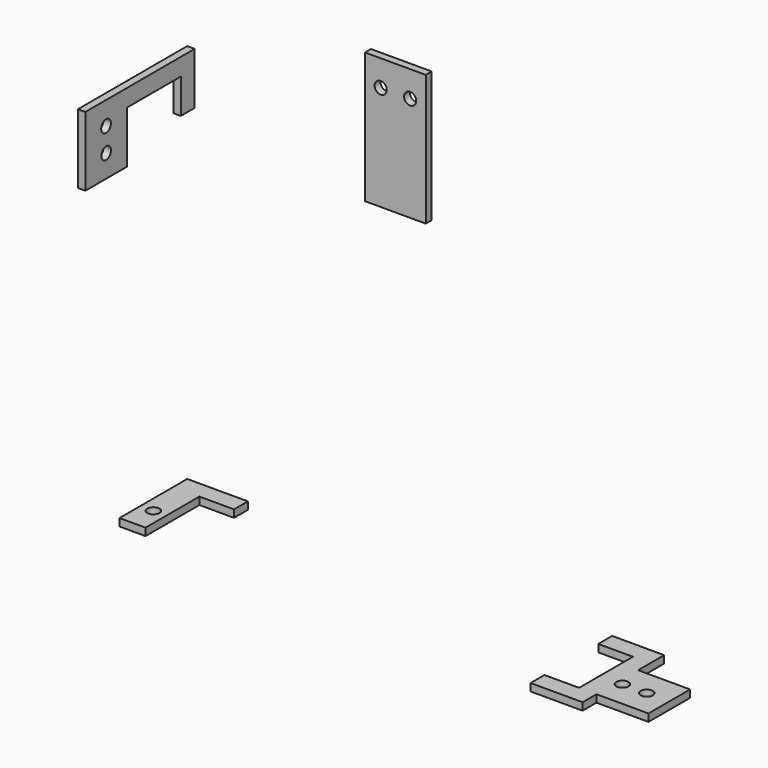
from build123d import *

# Parameters (mm, degrees)
F0_R     = 3.5
F1_DEPTH = 4.3
F2_R     = 3.5
F3_DEPTH = 4.3
F4_W     = 35
F4_H     = 75.5
F4_R     = 3.5
F5_DEPTH = 4.3


with BuildPart() as f1:
    # F0 (on Top) → F1 (new body)
    with BuildSketch(Plane.XY):
        Polygon((15, 38.8), (35, 38.8), (35, 48.8), (0, 48.8), (0, 0), (15, 0), align=None)
        with Locations((7.5, 15)):
            Circle(F0_R, mode=Mode.SUBTRACT)
        Polygon((264.985677, 38.796831), (264.985677, -0.003169), (244.985677, -0.003169), (244.985677, -10.003169), (274.985677, -10.003169), (274.97262, -0.003169), (304.972617, -0.016218), (304.985666, 29.983779), (274.985677, 30.009437), (274.985677, 48.796831), (244.985677, 48.796831), (244.985677, 38.796831), align=None)
        with Locations((277.985677, 14.98378)):
            Circle(F0_R, mode=Mode.SUBTRACT)
        with Locations((291.979141, 14.98378)):
            Circle(F0_R, mode=Mode.SUBTRACT)
    extrude(amount=F1_DEPTH)


with BuildPart() as f3:
    # F2 (on Right) → F3 (new body)
    with BuildSketch(Plane.YZ):
        Polygon((-30, 184), (0, 184), (0, 214), (38.8, 214), (38.8, 194), (48.8, 194), (48.8, 224), (-30, 224), align=None)
        with Locations((-15, 197)):
            Circle(F2_R, mode=Mode.SUBTRACT)
        with Locations((-15.081362, 210.762352)):
            Circle(F2_R, mode=Mode.SUBTRACT)
    extrude(amount=F3_DEPTH)


with BuildPart() as f5:
    # F4 (on Front) → F5 (new body)
    with BuildSketch(Plane.XZ):
        with Locations((162.5, 251.75)):
            Rectangle(F4_W, F4_H)
        with Locations((154, 274.5)):
            Circle(F4_R, mode=Mode.SUBTRACT)
        with Locations((171, 274.5)):
            Circle(F4_R, mode=Mode.SUBTRACT)
    extrude(amount=F5_DEPTH)


solid = Compound([f1.part, f3.part, f5.part])
